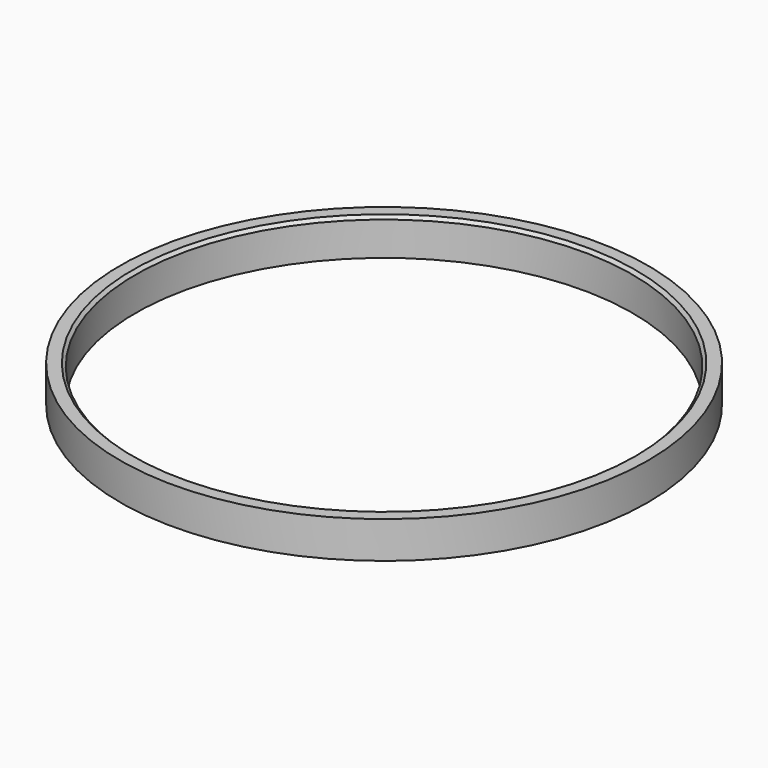
from build123d import *

# Parameters (mm, degrees)
SKETCH_R     = 43
SKETCH_R_2   = 40.5
PAD_DEPTH    = 6
CHAMFER_SIZE = 0.5


with BuildPart() as part:
    # Sketch → Pad (new body)
    with BuildSketch(Plane.XY):
        Circle(SKETCH_R)
        Circle(SKETCH_R_2, mode=Mode.SUBTRACT)
    extrude(amount=PAD_DEPTH)

    # Chamfer
    chamfer_edges = [part.edges().sort_by_distance(p)[0] for p in [
        (-40.5, 0, 6),
    ]]
    chamfer(chamfer_edges, length=CHAMFER_SIZE)


solid = part.part
